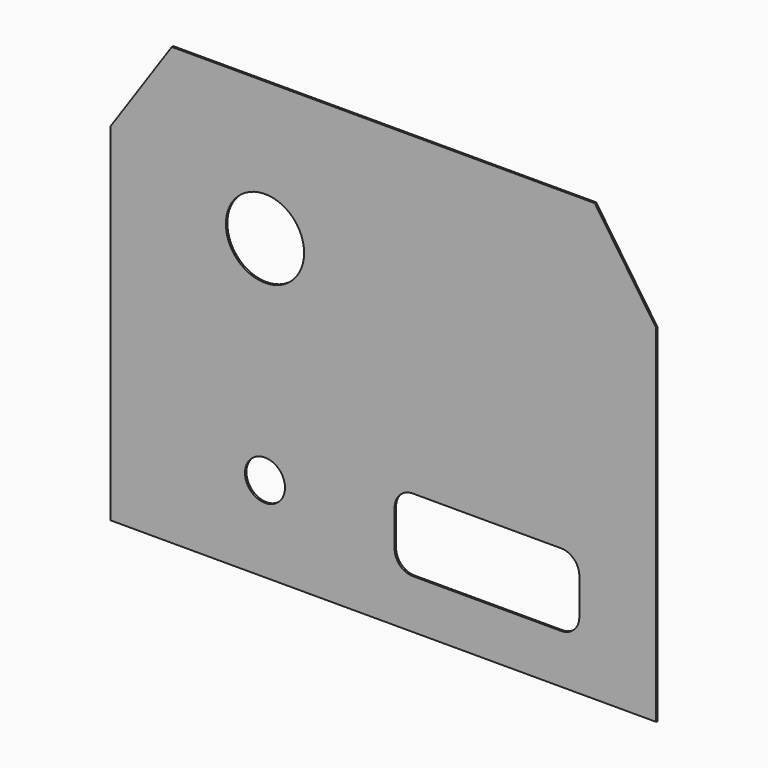
from build123d import *

# Parameters (mm, degrees)
F0_R     = 11
F0_R_2   = 21.5
F1_DEPTH = 1


with BuildPart() as f1:
    # F0 (on Front) → F1 (new body)
    with BuildSketch(Plane.XZ):
        Polygon((-150, -120), (150, -120), (150, 70.5), (116.211094, 120), (-116.211094, 120), (-150, 70.5), align=None)
        with Locations((-65, -73)):
            Circle(F0_R, mode=Mode.SUBTRACT)
        with BuildLine():
            ThreePointArc((107.75, -83), (104.821068, -90.071068), (97.75, -93))
            Line((97.75, -93), (16.25, -93))
            ThreePointArc((16.25, -93), (9.178932, -90.071068), (6.25, -83))
            Line((6.25, -83), (6.25, -63))
            ThreePointArc((6.25, -63), (9.178932, -55.928932), (16.25, -53))
            Line((16.25, -53), (97.75, -53))
            ThreePointArc((97.75, -53), (104.821068, -55.928932), (107.75, -63))
            Line((107.75, -63), (107.75, -83))
        make_face(mode=Mode.SUBTRACT)
        with Locations((-65, 44)):
            Circle(F0_R_2, mode=Mode.SUBTRACT)
    extrude(amount=F1_DEPTH)


solid = f1.part
